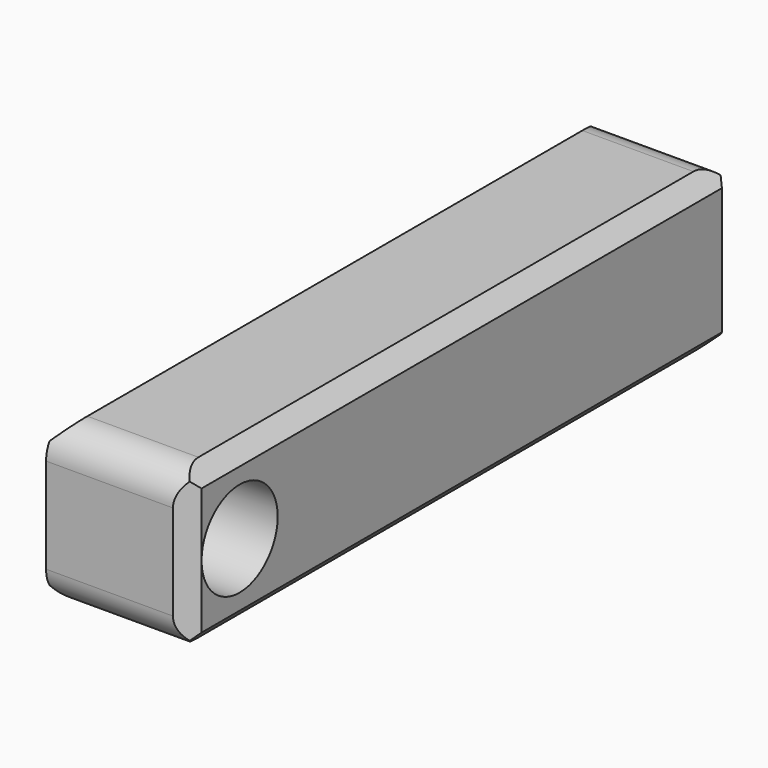
from build123d import *

# Parameters (mm, degrees)
F0_W     = 45
F0_H     = 50
F1_DEPTH = 215
F2_SIZE  = 5
F3_R     = 10
F5_DEPTH = 45.001


with BuildPart() as f1:
    # F0 (on Front) → F1 (new body)
    with BuildSketch(Plane.XZ):
        Rectangle(F0_W, F0_H)
    extrude(amount=F1_DEPTH)

    # F2
    f2_edges = [f1.edges().sort_by_distance(p)[0] for p in [
        (22.5, -107.5, 25),
        (-22.5, -107.5, 25),
        (22.5, -107.5, -25),
        (-22.5, -107.5, -25),
        (22.5, -215, 0),
        (22.5, 0, 0),
        (-22.5, 0, 0),
    ]]
    chamfer(f2_edges, length=F2_SIZE)

    # F3
    f3_edges = [f1.edges().sort_by_distance(p)[0] for p in [
        (0, -215, 25),
        (0, -215, -25),
        (0, 0, 25),
        (0, 0, -25),
    ]]
    fillet(f3_edges, radius=F3_R)

    # F4 (on face) → F5 (cut, through all)
    with BuildSketch(Plane.YZ.offset(22.5)):
        with BuildLine():
            ThreePointArc((-210, 8.56e-08), (-195.0000000428, -15), (-180, 0))
            ThreePointArc((-180, 0), (-194.9999999572, 15), (-210, 8.56e-08))
        make_face()
    extrude(amount=-F5_DEPTH, mode=Mode.SUBTRACT)


solid = f1.part
